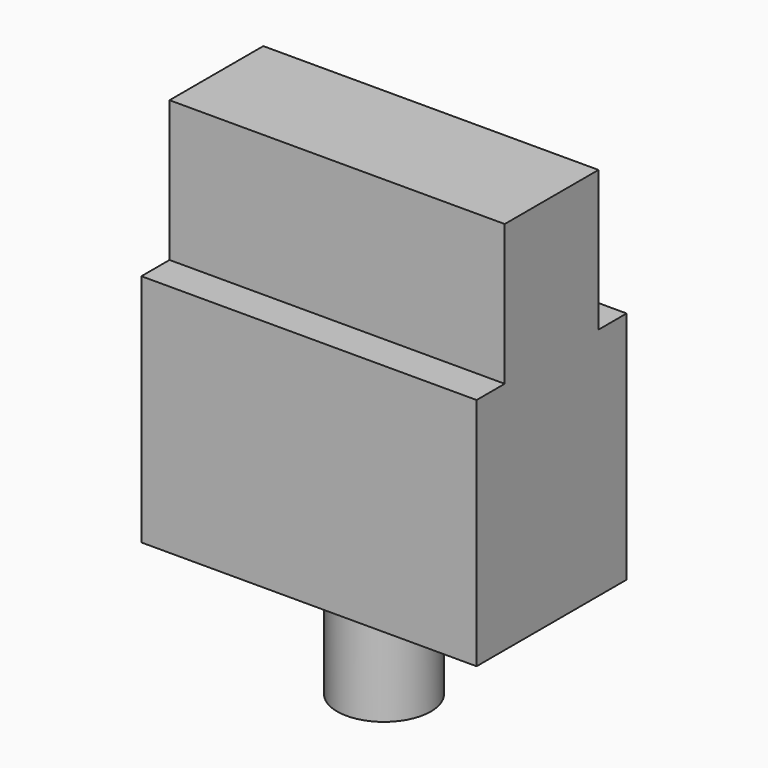
from build123d import *

# Parameters (mm, degrees)
F0_W     = 28.6
F0_H     = 16
F1_DEPTH = 20
F2_W     = 28.6
F2_H     = 10
F3_DEPTH = 12
F4_R     = 4
F5_DEPTH = 10


with BuildPart() as f1:
    # F0 (on Top) → F1 (new body)
    with BuildSketch(Plane.XY):
        with Locations((14.3, 8)):
            Rectangle(F0_W, F0_H)
    extrude(amount=F1_DEPTH)

    # F2 (on face) → F3 (join)
    with BuildSketch(Plane.XY.offset(20)):
        with Locations((14.3, 8)):
            Rectangle(F2_W, F2_H)
    extrude(amount=F3_DEPTH)

    # F4 (on face) → F5 (join)
    with BuildSketch(Plane(origin=(0, 0, 0), x_dir=(1, 0, 0), z_dir=(0, 0, -1))):
        with Locations((14.3, -8)):
            Circle(F4_R)
    extrude(amount=F5_DEPTH)


solid = f1.part
